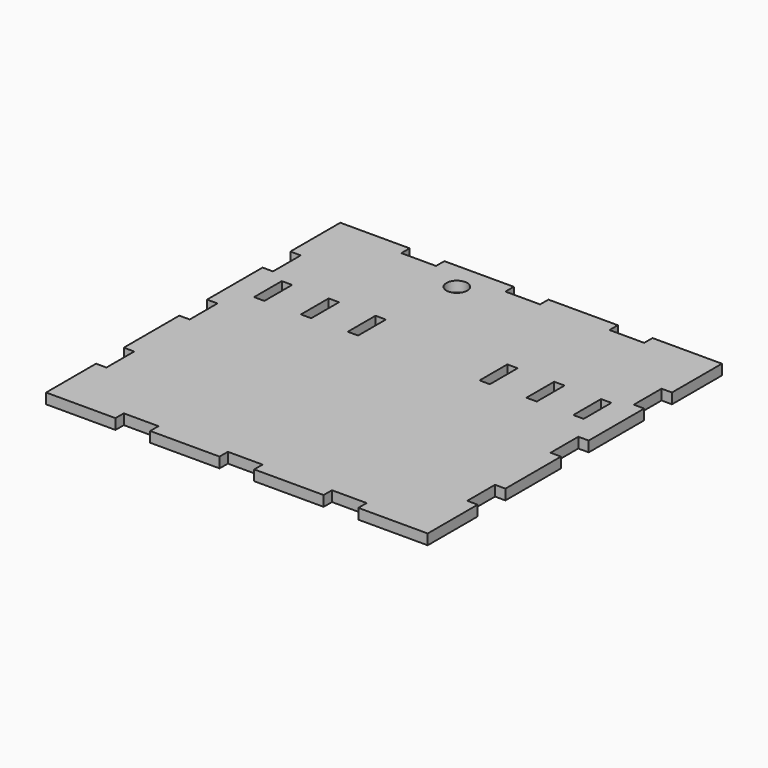
from build123d import *

# Parameters (mm, degrees)
F1_DEPTH = 3
F2_W     = 2.98
F2_H     = 10
F3_DEPTH = 25
F4_R     = 3
F5_DEPTH = 25


with BuildPart() as f1:
    # F0 (on Top) → F1 (new body)
    with BuildSketch(Plane.XY):
        Polygon((35, -53), (55, -53), (55, -35), (52, -35), (52, -25), (55, -25), (55, -5), (52, -5), (52, 5), (55, 5), (55, 25), (52, 25), (52, 35), (55, 35), (55, 53), (35, 53), (35, 52), (35, 50), (25, 50), (25, 52), (25, 53), (5, 53), (5, 52), (5, 50), (-5, 50), (-5, 52), (-5, 53), (-25, 53), (-25, 52), (-25, 50), (-35, 50), (-35, 52), (-35, 53), (-55, 53), (-55, 35), (-52, 35), (-52, 25), (-55, 25), (-55, 5), (-52, 5), (-52, -5), (-55, -5), (-55, -25), (-52, -25), (-52, -35), (-55, -35), (-55, -53), (-35, -53), (-35, -52), (-35, -50), (-25, -50), (-25, -52), (-25, -53), (-5, -53), (-5, -52), (-5, -50), (5, -50), (5, -52), (5, -53), (25, -53), (25, -52), (25, -50), (35, -50), (35, -52), align=None)
        Polygon((35, -53), (55, -53), (55, -35), (52, -35), (52, -25), (55, -25), (55, -5), (52, -5), (52, 5), (55, 5), (55, 25), (52, 25), (52, 35), (55, 35), (55, 53), (35, 53), (35, 52), (35, 50), (25, 50), (25, 52), (25, 53), (5, 53), (5, 52), (5, 50), (-5, 50), (-5, 52), (-5, 53), (-25, 53), (-25, 52), (-25, 50), (-35, 50), (-35, 52), (-35, 53), (-55, 53), (-55, 35), (-52, 35), (-52, 25), (-55, 25), (-55, 5), (-52, 5), (-52, -5), (-55, -5), (-55, -25), (-52, -25), (-52, -35), (-55, -35), (-55, -53), (-35, -53), (-35, -52), (-35, -50), (-25, -50), (-25, -52), (-25, -53), (-5, -53), (-5, -52), (-5, -50), (5, -50), (5, -52), (5, -53), (25, -53), (25, -52), (25, -50), (35, -50), (35, -52), align=None)
        Polygon((35, -53), (55, -53), (55, -35), (52, -35), (52, -25), (55, -25), (55, -5), (52, -5), (52, 5), (55, 5), (55, 25), (52, 25), (52, 35), (55, 35), (55, 53), (35, 53), (35, 52), (35, 50), (25, 50), (25, 52), (25, 53), (5, 53), (5, 52), (5, 50), (-5, 50), (-5, 52), (-5, 53), (-25, 53), (-25, 52), (-25, 50), (-35, 50), (-35, 52), (-35, 53), (-55, 53), (-55, 35), (-52, 35), (-52, 25), (-55, 25), (-55, 5), (-52, 5), (-52, -5), (-55, -5), (-55, -25), (-52, -25), (-52, -35), (-55, -35), (-55, -53), (-35, -53), (-35, -52), (-35, -50), (-25, -50), (-25, -52), (-25, -53), (-5, -53), (-5, -52), (-5, -50), (5, -50), (5, -52), (5, -53), (25, -53), (25, -52), (25, -50), (35, -50), (35, -52), align=None)
        Polygon((35, -53), (55, -53), (55, -35), (52, -35), (52, -25), (55, -25), (55, -5), (52, -5), (52, 5), (55, 5), (55, 25), (52, 25), (52, 35), (55, 35), (55, 53), (35, 53), (35, 52), (35, 50), (25, 50), (25, 52), (25, 53), (5, 53), (5, 52), (5, 50), (-5, 50), (-5, 52), (-5, 53), (-25, 53), (-25, 52), (-25, 50), (-35, 50), (-35, 52), (-35, 53), (-55, 53), (-55, 35), (-52, 35), (-52, 25), (-55, 25), (-55, 5), (-52, 5), (-52, -5), (-55, -5), (-55, -25), (-52, -25), (-52, -35), (-55, -35), (-55, -53), (-35, -53), (-35, -52), (-35, -50), (-25, -50), (-25, -52), (-25, -53), (-5, -53), (-5, -52), (-5, -50), (5, -50), (5, -52), (5, -53), (25, -53), (25, -52), (25, -50), (35, -50), (35, -52), align=None)
        Polygon((35, -53), (55, -53), (55, -35), (52, -35), (52, -25), (55, -25), (55, -5), (52, -5), (52, 5), (55, 5), (55, 25), (52, 25), (52, 35), (55, 35), (55, 53), (35, 53), (35, 52), (35, 50), (25, 50), (25, 52), (25, 53), (5, 53), (5, 52), (5, 50), (-5, 50), (-5, 52), (-5, 53), (-25, 53), (-25, 52), (-25, 50), (-35, 50), (-35, 52), (-35, 53), (-55, 53), (-55, 35), (-52, 35), (-52, 25), (-55, 25), (-55, 5), (-52, 5), (-52, -5), (-55, -5), (-55, -25), (-52, -25), (-52, -35), (-55, -35), (-55, -53), (-35, -53), (-35, -52), (-35, -50), (-25, -50), (-25, -52), (-25, -53), (-5, -53), (-5, -52), (-5, -50), (5, -50), (5, -52), (5, -53), (25, -53), (25, -52), (25, -50), (35, -50), (35, -52), align=None)
        Polygon((35, -53), (55, -53), (55, -35), (52, -35), (52, -25), (55, -25), (55, -5), (52, -5), (52, 5), (55, 5), (55, 25), (52, 25), (52, 35), (55, 35), (55, 53), (35, 53), (35, 52), (35, 50), (25, 50), (25, 52), (25, 53), (5, 53), (5, 52), (5, 50), (-5, 50), (-5, 52), (-5, 53), (-25, 53), (-25, 52), (-25, 50), (-35, 50), (-35, 52), (-35, 53), (-55, 53), (-55, 35), (-52, 35), (-52, 25), (-55, 25), (-55, 5), (-52, 5), (-52, -5), (-55, -5), (-55, -25), (-52, -25), (-52, -35), (-55, -35), (-55, -53), (-35, -53), (-35, -52), (-35, -50), (-25, -50), (-25, -52), (-25, -53), (-5, -53), (-5, -52), (-5, -50), (5, -50), (5, -52), (5, -53), (25, -53), (25, -52), (25, -50), (35, -50), (35, -52), align=None)
    extrude(amount=F1_DEPTH)

    # F2 (on face) → F3 (cut)
    with BuildSketch(Plane(origin=(0, 0, 0), x_dir=(1, 0, 0), z_dir=(0, 0, -1))):
        with Locations((-46.01, -17.55)):
            Rectangle(F2_W, F2_H)
        with Locations((-32.5, -17.55)):
            Rectangle(F2_W, F2_H)
        with Locations((-18.99, -17.55)):
            Rectangle(F2_W, F2_H)
        with Locations((18.99, -17.55)):
            Rectangle(F2_W, F2_H)
        with Locations((32.5, -17.55)):
            Rectangle(F2_W, F2_H)
        with Locations((46.01, -17.55)):
            Rectangle(F2_W, F2_H)
    extrude(amount=-F3_DEPTH, mode=Mode.SUBTRACT)

    # F4 (on face) → F5 (cut)
    with BuildSketch(Plane.XY.offset(3)):
        with Locations((-15, 45)):
            Circle(F4_R)
    extrude(amount=-F5_DEPTH, mode=Mode.SUBTRACT)


solid = f1.part
